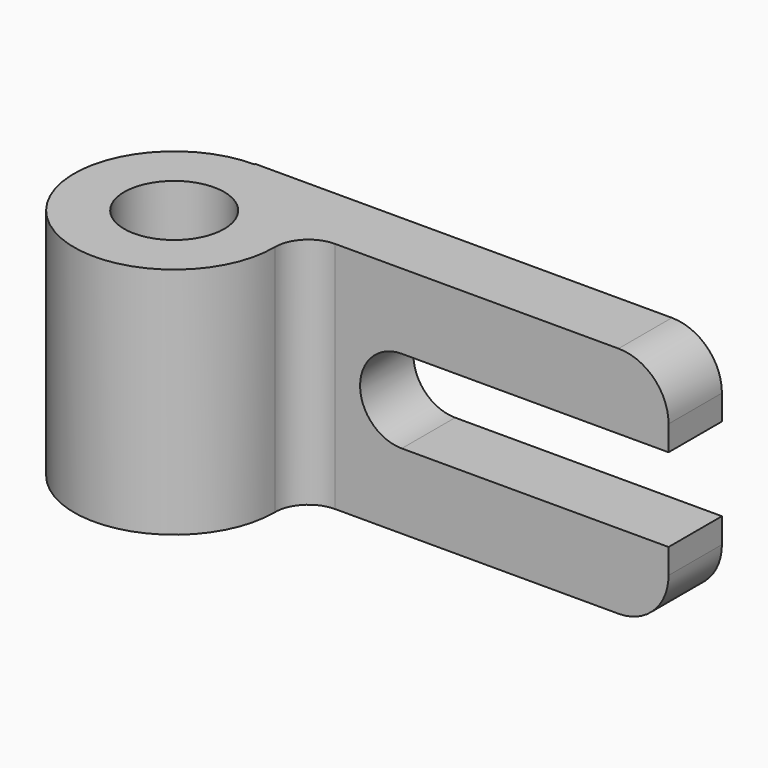
from build123d import *

# Parameters (mm, degrees)
F0_W     = 88.9
F0_H     = 44.45
F1_DEPTH = 12.7
F2_R     = 9.525
F4_DEPTH = 12.7
F5_R     = 19.05
F5_R_2   = 9.525
F6_DEPTH = 44.45
F7_R     = 9.525
F8_DEPTH = 44.45
F9_R     = 6.35


with BuildPart() as f1:
    # F0 (on Front) → F1 (new body)
    with BuildSketch(Plane.XZ):
        with Locations((44.45, -13.911705)):
            Rectangle(F0_W, F0_H)
    extrude(amount=F1_DEPTH)

    # F2
    f2_edges = [f1.edges().sort_by_distance(p)[0] for p in [
        (88.9, -6.35, 8.313295),
        (88.9, -6.35, -36.136705),
    ]]
    fillet(f2_edges, radius=F2_R)

    # F3 (on face) → F4 (cut)
    with BuildSketch(Plane.XZ.offset(12.7)):
        with BuildLine():
            ThreePointArc((38.1, -21.849205), (43.71266, -19.524366), (46.0375, -13.911705))
            ThreePointArc((46.0375, -13.911705), (43.71266, -8.299045), (38.1, -5.974205))
            ThreePointArc((38.1, -5.974205), (30.1625, -13.911705), (38.1, -21.849205))
        make_face()
        with BuildLine():
            ThreePointArc((38.1, -5.974205), (43.71266, -8.299045), (46.0375, -13.911705))
            ThreePointArc((46.0375, -13.911705), (43.71266, -19.524366), (38.1, -21.849205))
            Line((38.1, -21.849205), (88.9, -21.849205))
            Line((88.9, -21.849205), (88.9, -5.974205))
            Line((88.9, -5.974205), (38.1, -5.974205))
        make_face()
    extrude(amount=-F4_DEPTH, mode=Mode.SUBTRACT)

    # F5 (on face) → F6 (join)
    with BuildSketch(Plane.XY.offset(8.313295)):
        with Locations((0, -19.242762)):
            Circle(F5_R)
        with Locations((0, -19.242762)):
            Circle(F5_R_2, mode=Mode.SUBTRACT)
    extrude(amount=-F6_DEPTH)

    # F7 (on face) → F8 (cut)
    with BuildSketch(Plane.XY.offset(8.313295)):
        with Locations((0, -19.242762)):
            Circle(F7_R)
    extrude(amount=-F8_DEPTH, mode=Mode.SUBTRACT)

    # F9
    f9_edges = [f1.edges().sort_by_distance(p)[0] for p in [
        (17.891192, -12.7, -13.911705),
    ]]
    fillet(f9_edges, radius=F9_R)


solid = f1.part
